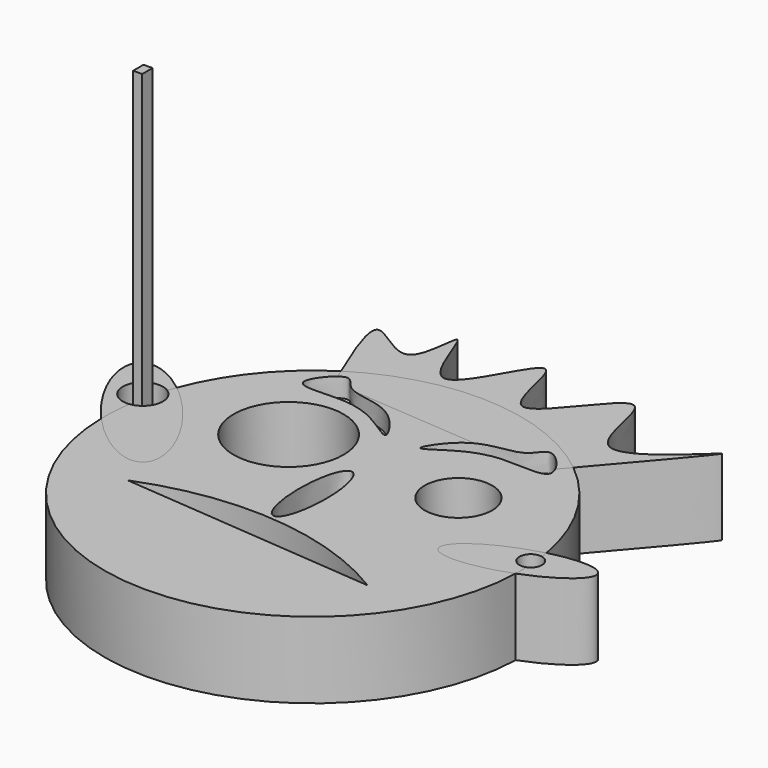
from build123d import *

# Parameters (mm, degrees)
F0_R      = 69.4221235663
F1_DEPTH  = 25.4
F2_R      = 18.3259544641
F2_R_2    = 11.230368882
F3_DEPTH  = 25.4
F5_DEPTH  = 25.4
F7_DEPTH  = 25.4
F9_DEPTH  = 25.4
F10_R     = 6.6769018769
F10_R_2   = 3.7770285188
F11_DEPTH = 6.35
F12_W     = 3.0087530613
F12_H     = 4.3347496539
F13_DEPTH = 101.6
F15_DEPTH = 6.35


with BuildPart() as f1:
    # F0 (on Top) → F1 (new body)
    with BuildSketch(Plane.XY):
        Circle(F0_R)
    extrude(amount=F1_DEPTH)

    # F2 (on face) → F3 (cut)
    with BuildSketch(Plane.XY.offset(25.4)):
        with Locations((-25.7175005972, 22.1080258489)):
            Circle(F2_R)
        with Locations((31.1317089945, 21.8072365969)):
            Circle(F2_R_2)
        with BuildLine():
            add(Edge.make_bspline(
                [(0, -16.0922370851), (7.8423873252, -16.0922370851), (3.9211936626, 8.0461185426), (0, 32.1844741702), (-3.9211936626, 8.0461185426), (-7.8423873252, -16.0922370851), (0, -16.0922370851)],
                knots=[0, 0, 0, 2.0943951024, 2.0943951024, 4.1887902048, 4.1887902048, 6.2831853072, 6.2831853072, 6.2831853072], degree=2, weights=[1, 0.5, 1, 0.5, 1, 0.5, 1]))
        make_face()
    extrude(amount=-F3_DEPTH, mode=Mode.SUBTRACT)

    # F4 (on face) → F5 (cut)
    with BuildSketch(Plane.XY.offset(25.4)):
        with BuildLine():
            Line((-42.2609224916, -24.2135543376), (43.4640794992, -31.4324982464))
            ThreePointArc((43.4640794992, -31.4324982464), (1.457302443, -17.6612994082), (-42.2609224916, -24.2135543376))
        make_face()
    extrude(amount=-F5_DEPTH, mode=Mode.SUBTRACT)

    # F6 (on face) → F7 (join)
    with BuildSketch(Plane.XY.offset(25.4)):
        with BuildLine():
            add(Edge.make_bspline(
                [(86.1761793494, 10.9788160771), (82.234587166, 22.3108878836), (53.0736873017, 5.8164305292), (23.9127874374, -10.6780268252), (57.0152794851, -5.5156412773), (90.1177715328, -0.3532557294), (86.1761793494, 10.9788160771)],
                knots=[0, 0, 0, 2.0943951024, 2.0943951024, 4.1887902048, 4.1887902048, 6.2831853072, 6.2831853072, 6.2831853072], degree=2, weights=[1, 0.5, 1, 0.5, 1, 0.5, 1]))
        make_face()
        with BuildLine():
            add(Edge.make_bspline(
                [(-81.0627639294, 29.6277627349), (-95.3517658221, 17.9187219325), (-61.5874021106, -8.7120206228), (-27.8230383992, -35.3427631781), (-47.2984002179, 2.9970201796), (-66.7737620367, 41.3368035373), (-81.0627639294, 29.6277627349)],
                knots=[0, 0, 0, 2.0943951024, 2.0943951024, 4.1887902048, 4.1887902048, 6.2831853072, 6.2831853072, 6.2831853072], degree=2, weights=[1, 0.5, 1, 0.5, 1, 0.5, 1]))
        make_face()
    extrude(amount=-F7_DEPTH)

    # F8 (on face) → F9 (join)
    with BuildSketch(Plane.XY.offset(25.4)):
        with BuildLine():
            add(Edge.make_bspline(
                [(-34.7127616405, 52.2891171277), (-41.3213796589, 67.7064983727), (-52.5889404131, 93.9928231938), (-25.036270403, 66.7009183836), (-26.669095778, 106.2684481917), (-14.5236889546, 52.2042746388), (6.0054434566, 112.6787634462), (7.7268162818, 52.7193258733), (39.0319786658, 111.2148702361), (36.8918029477, 51.0691867167), (85.3843850564, 102.2541236713), (54.9035734988, 66.7795461558), (37.7145111561, 46.7743463814)],
                knots=[0, 0, 0, 0, 0.1113450712, 0.189841106, 0.2662346761, 0.3588961878, 0.4607047625, 0.5533469832, 0.6589593594, 0.7569369832, 0.8629293272, 1, 1, 1, 1], degree=3))
            Line((-34.7127616405, 52.2891171277), (37.7145111561, 46.7743463814))
        make_face()
    extrude(amount=-F9_DEPTH)

    # F10 (on face) → F11 (cut)
    with BuildSketch(Plane.XY.offset(25.4)):
        with Locations((-69.5689022541, 16.2194222212)):
            Circle(F10_R)
        with Locations((67.975230515, 5.870227702)):
            Circle(F10_R_2)
    extrude(amount=-F11_DEPTH, mode=Mode.SUBTRACT)

    # F12 (on face) → F13 (join)
    with BuildSketch(Plane.XY.offset(19.05)):
        with Locations((-69.5689022541, 16.2194222212)):
            Rectangle(F12_W, F12_H)
    extrude(amount=F13_DEPTH)

    # F14 (on face) → F15 (cut)
    with BuildSketch(Plane.XY.offset(25.4)):
        with BuildLine():
            add(Edge.make_bspline(
                [(-34.1813340783, 56.6146671772), (-36.9224760616, 56.1414289673), (-47.3901373934, 43.3380703243), (-24.4485004792, 47.8509921873), (-12.8671959652, 41.7968047129), (-3.3853258711, 35.0036309361), (-10.0483649738, 45.8510794051), (-18.4717401229, 50.7377906531), (-30.1955878456, 51.0203662372), (-32.2036821557, 56.9560943858), (-34.1813340783, 56.6146671772)],
                knots=[0, 0, 0, 0, 0.1321591628, 0.2825322934, 0.4386967288, 0.537803038, 0.6469346527, 0.7762650878, 0.9046511184, 1, 1, 1, 1], degree=3))
        make_face()
        with BuildLine():
            add(Edge.make_bspline(
                [(34.1813340783, 56.6146671772), (36.9224760616, 56.1414289673), (47.3901373934, 43.3380703243), (24.4485004792, 47.8509921873), (12.8671959652, 41.7968047129), (3.3853258711, 35.0036309361), (10.0483649738, 45.8510794051), (18.4717401229, 50.7377906531), (30.1955878456, 51.0203662372), (32.2036821557, 56.9560943858), (34.1813340783, 56.6146671772)],
                knots=[0, 0, 0, 0, 0.1321591628, 0.2825322934, 0.4386967288, 0.537803038, 0.6469346527, 0.7762650878, 0.9046511184, 1, 1, 1, 1], degree=3))
        make_face()
    extrude(amount=-F15_DEPTH, mode=Mode.SUBTRACT)


solid = f1.part
